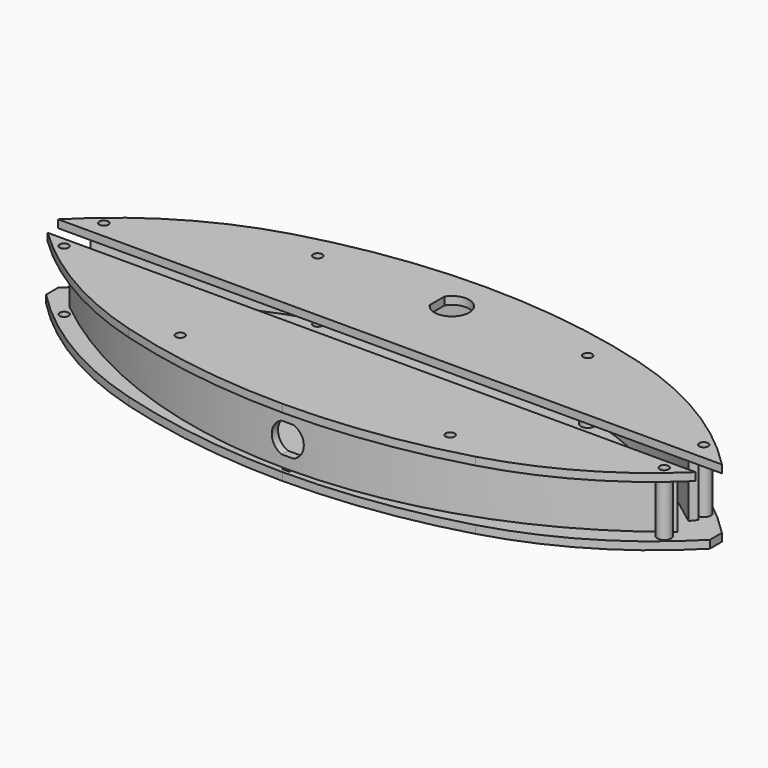
from build123d import *

# Parameters (mm, degrees)
PAD_DEPTH                = 3
SKETCH030_R              = 1.716601
SKETCH030_R_2            = 1.716598
POCKET_DEPTH             = 546.221098
SKETCH030_MIRRORED_2_R   = 1.716601
SKETCH030_MIRRORED_2_R_2 = 1.716598
POCKET_MIRRORED_2_DEPTH  = 546.221098
SKETCH031_W              = 2.782745
SKETCH031_H              = 2.782745
POCKET001_DEPTH          = 3.001
SKETCH032_R              = 2.625
SKETCH032_R_2            = 1.5
PAD001_DEPTH             = 20
SKETCH033_R              = 2.625
SKETCH033_R_2            = 1.5
PAD002_DEPTH             = 20
SKETCH034_R              = 2.625
SKETCH034_R_2            = 1.5
PAD003_DEPTH             = 20
SKETCH035_R              = 2.625
SKETCH035_R_2            = 1.5
PAD004_DEPTH             = 20
SKETCH039_W              = 255.742076
SKETCH039_H              = 8.75
PAD006_DEPTH             = 5
SKETCH037_R              = 1.716601
SKETCH037_R_2            = 1.716598
PAD005_DEPTH             = 3
POCKET002_DEPTH          = 3.001
PAD007_DEPTH             = 20
POCKET003_DEPTH          = 53.398562
PAD008_DEPTH             = 20


with BuildPart() as body_bottom:
    # Sketch029 → Pad (new body)
    with BuildSketch(Plane.XY):
        with BuildLine():
            Line((-126.871034, 2.878975), (-126.871034, -2.878975))
            ThreePointArc((-126.871034, -2.878975), (-98.933801, -24.947165), (-66.268729, -39.106511))
            ThreePointArc((-66.268729, -39.106511), (-33.459995, -46.080223), (0, -48.419973))
            ThreePointArc((0, -48.419973), (33.459994, -46.080223), (66.268729, -39.106511))
            ThreePointArc((66.268729, -39.106511), (98.933805, -24.947165), (126.871042, -2.878975))
            Line((126.871042, 2.878975), (126.871042, -2.878975))
            ThreePointArc((126.871042, 2.878975), (98.933819, 24.947168), (66.268755, 39.106515))
            ThreePointArc((66.268755, 39.106515), (33.460008, 46.080233), (0, 48.419985))
            ThreePointArc((0, 48.419985), (-33.459995, 46.080234), (-66.268729, 39.106523))
            ThreePointArc((-66.268729, 39.106523), (-98.933803, 24.947174), (-126.871034, 2.878975))
        make_face()
    extrude(amount=PAD_DEPTH)

    # Sketch030 (on Face8 of Pad) → Pocket (cut, through all)
    with BuildSketch(Plane.XY.offset(3)):
        with Locations((-114.683004, -9.474632)):
            Circle(SKETCH030_R)
        with Locations((-51.58618, -32.858757)):
            Circle(SKETCH030_R_2)
    pocket = extrude(amount=-POCKET_DEPTH, mode=Mode.SUBTRACT)

    # Sketch030 Mirrored 2 → Pocket Mirrored 2 (cut, through all)
    with BuildSketch(Plane(origin=(0, 0, 3), x_dir=(-1, 0, 0), z_dir=(0, 0, -1))):
        with Locations((-114.683004, -9.474632)):
            Circle(SKETCH030_MIRRORED_2_R)
        with Locations((-51.58618, -32.858757)):
            Circle(SKETCH030_MIRRORED_2_R_2)
    pocket_mirrored_2 = extrude(amount=POCKET_MIRRORED_2_DEPTH, mode=Mode.SUBTRACT)

    # Mirrored001: Pocket, Pocket Mirrored 2 across Sketch030 H_Axis
    add(pocket.mirror(Plane(origin=(0, 0, 3), x_dir=(0, 0, 1), z_dir=(0, 1, 0))), mode=Mode.SUBTRACT)
    add(pocket_mirrored_2.mirror(Plane(origin=(0, 0, 3), x_dir=(0, 0, 1), z_dir=(0, 1, 0))), mode=Mode.SUBTRACT)

    # Sketch031 (on Face5 of MultiTransform) → Pocket001 (cut, through all)
    with BuildSketch(Plane.XY.offset(3)):
        with Locations((3e-06, 45.548952)):
            Rectangle(SKETCH031_W, SKETCH031_H)
        with Locations((3e-06, -45.548946)):
            Rectangle(SKETCH031_W, SKETCH031_H)
    extrude(amount=-POCKET001_DEPTH, mode=Mode.SUBTRACT)


with BuildPart() as body004:
    # Sketch032 → Pad001 (new body)
    with BuildSketch(Plane.XY.offset(3)):
        with Locations((-114.683004, 9.474632)):
            Circle(SKETCH032_R)
        with Locations((-114.683004, 9.474632)):
            Circle(SKETCH032_R_2, mode=Mode.SUBTRACT)
    extrude(amount=PAD001_DEPTH)


with BuildPart() as part_mirroring:
    # Part__Mirroring: instance of Body004
    add(body004.part.mirror(Plane(origin=(0, 0, 0), x_dir=(0, -1, 0), z_dir=(1, 0, 0))))


with BuildPart() as body005:
    # Sketch033 → Pad002 (new body)
    with BuildSketch(Plane.XY.offset(3)):
        with Locations((-114.683004, -9.474632)):
            Circle(SKETCH033_R)
        with Locations((-114.683004, -9.474632)):
            Circle(SKETCH033_R_2, mode=Mode.SUBTRACT)
    extrude(amount=PAD002_DEPTH)


with BuildPart() as part_mirroring001:
    # Part__Mirroring001: instance of Body005
    add(body005.part.mirror(Plane(origin=(0, 0, 0), x_dir=(0, -1, 0), z_dir=(1, 0, 0))))


with BuildPart() as body006:
    # Sketch034 → Pad003 (new body)
    with BuildSketch(Plane.XY.offset(3)):
        with Locations((-51.58618, 32.858757)):
            Circle(SKETCH034_R)
        with Locations((-51.58618, 32.858757)):
            Circle(SKETCH034_R_2, mode=Mode.SUBTRACT)
    extrude(amount=PAD003_DEPTH)


with BuildPart() as part_mirroring002:
    # Part__Mirroring002: instance of Body006
    add(body006.part.mirror(Plane(origin=(0, 0, 0), x_dir=(0, -1, 0), z_dir=(1, 0, 0))))


with BuildPart() as body007:
    # Sketch035 → Pad004 (new body)
    with BuildSketch(Plane.XY.offset(3)):
        with Locations((-51.58618, -32.858757)):
            Circle(SKETCH035_R)
        with Locations((-51.58618, -32.858757)):
            Circle(SKETCH035_R_2, mode=Mode.SUBTRACT)
    extrude(amount=PAD004_DEPTH)


with BuildPart() as part_mirroring003:
    # Part__Mirroring003: instance of Body007
    add(body007.part.mirror(Plane(origin=(0, 0, 0), x_dir=(0, -1, 0), z_dir=(1, 0, 0))))


with BuildPart() as body008:
    # Sketch039 → Pad006 (new body)
    with BuildSketch(Plane.XY):
        with Locations((4e-06, -1.496025)):
            Rectangle(SKETCH039_W, SKETCH039_H)
    extrude(amount=PAD006_DEPTH)


with BuildPart() as body008_1:
    # Body008 placement: moved
    add(body008.part.moved(Location((0, 0, 22))))


with BuildPart() as cut:
    # Sketch037 → Pad005 (new body)
    with BuildSketch(Plane.XY):
        with BuildLine():
            ThreePointArc((-66.268729, 39.106523), (-98.933803, 24.947174), (-126.871034, 2.878975))
            Line((-126.871034, -2.878975), (-126.871034, 2.878975))
            ThreePointArc((-126.871034, -2.878975), (-98.933801, -24.947165), (-66.268729, -39.106511))
            ThreePointArc((-66.268729, -39.106511), (-33.459995, -46.080223), (0, -48.419973))
            ThreePointArc((0, -48.419973), (33.459994, -46.080223), (66.268729, -39.106511))
            ThreePointArc((66.268729, -39.106511), (98.933805, -24.947165), (126.871042, -2.878975))
            Line((126.871042, -2.878975), (126.871042, 2.878975))
            ThreePointArc((126.871042, 2.878975), (98.933819, 24.947168), (66.268755, 39.106515))
            ThreePointArc((66.268755, 39.106515), (33.460008, 46.080233), (0, 48.419985))
            ThreePointArc((0, 48.419985), (-33.459995, 46.080234), (-66.268729, 39.106523))
        make_face()
        with Locations((114.683004, 9.474632)):
            Circle(SKETCH037_R, mode=Mode.SUBTRACT)
        with Locations((114.683004, -9.474632)):
            Circle(SKETCH037_R, mode=Mode.SUBTRACT)
        with Locations((51.58618, 32.858757)):
            Circle(SKETCH037_R_2, mode=Mode.SUBTRACT)
        with Locations((-51.58618, 32.858757)):
            Circle(SKETCH037_R_2, mode=Mode.SUBTRACT)
        with Locations((-114.683004, 9.474632)):
            Circle(SKETCH037_R, mode=Mode.SUBTRACT)
        with Locations((-114.683004, -9.474632)):
            Circle(SKETCH037_R, mode=Mode.SUBTRACT)
        with Locations((-51.58618, -32.858757)):
            Circle(SKETCH037_R_2, mode=Mode.SUBTRACT)
        with Locations((51.58618, -32.858757)):
            Circle(SKETCH037_R_2, mode=Mode.SUBTRACT)
    extrude(amount=PAD005_DEPTH)

    # Sketch038 (on Face16 of Pad005) → Pocket002 (cut, through all)
    with BuildSketch(Plane.XY.offset(3)):
        with BuildLine():
            ThreePointArc((-5.625, 28.919985), (6.625, 32.419985), (-5.625, 35.919985))
            Line((-5.625, 35.919985), (-5.625, 28.919985))
        make_face()
    extrude(amount=-POCKET002_DEPTH, mode=Mode.SUBTRACT)


with BuildPart() as cut_1:
    # Body003 placement: moved
    add(cut.part.moved(Location((0, 0, 23))))

    # Cut: cut Body008
    add(body008_1.part, mode=Mode.SUBTRACT)


with BuildPart() as body009:
    # Sketch040 → Pad007 (new body)
    with BuildSketch(Plane.XY.offset(3)):
        with BuildLine():
            Line((114.300067, -2.602438), (116.188028, -4.933876))
            ThreePointArc((-116.188028, -4.933876), (0, -46.078214), (116.188028, -4.933876))
            Line((-116.188028, -4.933876), (-114.300067, -2.602438))
            ThreePointArc((-114.300067, -2.602438), (0, -43.078214), (114.300067, -2.602438))
        make_face()
    extrude(amount=PAD007_DEPTH)

    # Sketch042 → Pocket003 (cut, through all)
    with BuildSketch(Plane.XZ.offset(56)):
        with BuildLine():
            ThreePointArc((2.3, 7.323238), (6.125, 13), (2.3, 18.676762))
            Line((-2.3, 18.676762), (2.3, 18.676762))
            ThreePointArc((-2.3, 18.676762), (-6.125, 13), (-2.3, 7.323238))
            Line((-2.3, 7.323238), (2.3, 7.323238))
        make_face()
    extrude(amount=-POCKET003_DEPTH, mode=Mode.SUBTRACT)


with BuildPart() as body010:
    # Sketch041 → Pad008 (new body)
    with BuildSketch(Plane.XY.offset(3)):
        with BuildLine():
            Line((-114.300067, 2.602438), (-116.188028, 4.933876))
            ThreePointArc((116.188028, 4.933876), (0, 46.078214), (-116.188028, 4.933876))
            Line((116.188028, 4.933876), (114.300067, 2.602438))
            ThreePointArc((114.300067, 2.602438), (0, 43.078214), (-114.300067, 2.602438))
        make_face()
    extrude(amount=PAD008_DEPTH)


solid = Compound([body_bottom.part, part_mirroring.part, part_mirroring001.part, part_mirroring002.part, part_mirroring003.part, cut_1.part, body009.part, body010.part])
